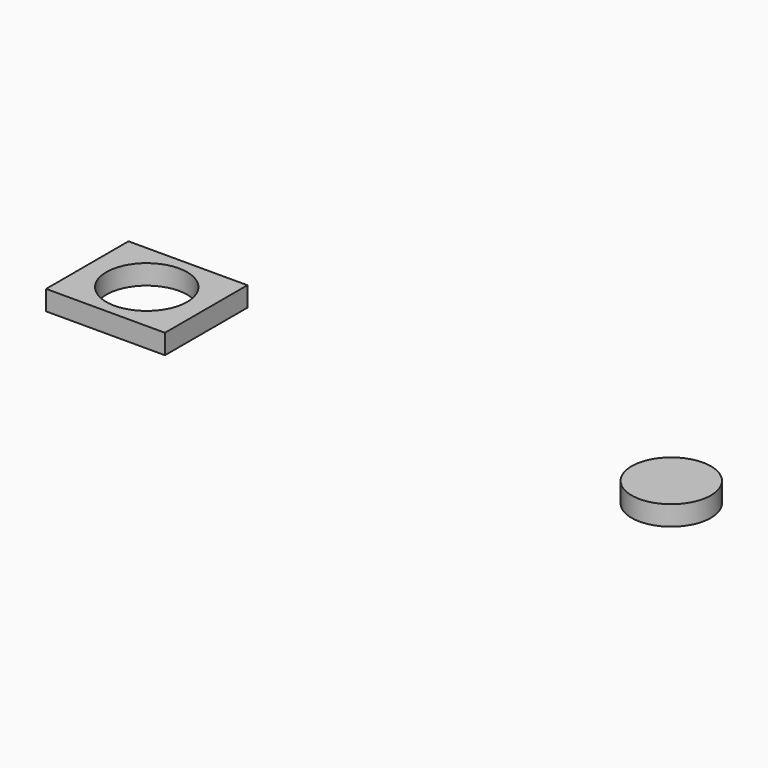
from build123d import *

# Parameters (mm, degrees)
F0_W     = 30
F0_H     = 26
F0_R     = 10.2
F0_R_2   = 10
F1_DEPTH = 5


with BuildPart() as f1:
    # F0 (on Top) → F1 (new body)
    with BuildSketch(Plane.XY):
        with Locations((-132.368076, 0)):
            Rectangle(F0_W, F0_H)
        with Locations((-132.368076, 0)):
            Circle(F0_R, mode=Mode.SUBTRACT)
        Circle(F0_R_2)
    extrude(amount=F1_DEPTH)


solid = f1.part
